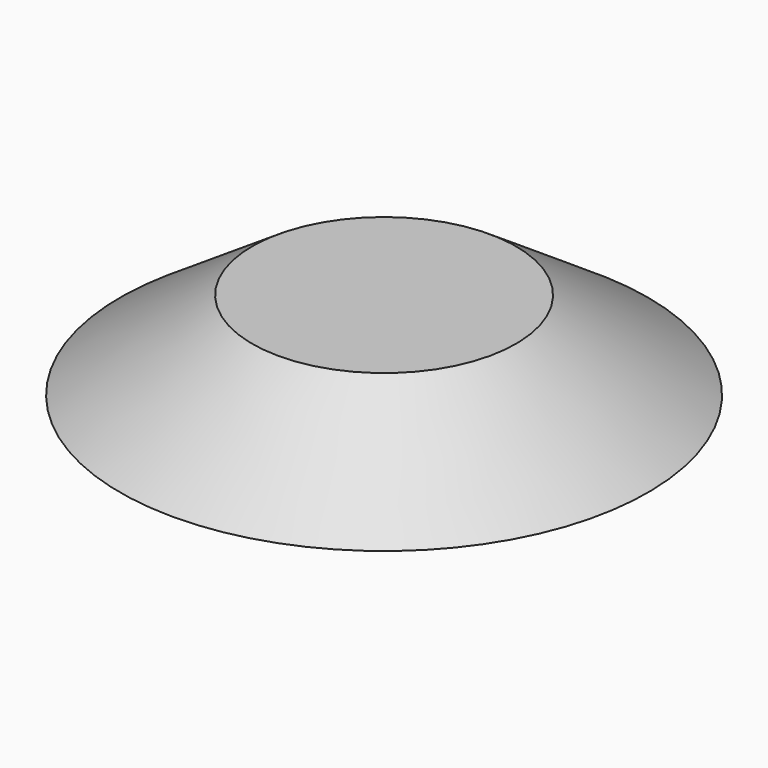
from build123d import *


with BuildPart() as f1:
    # F0 (on Right) → F1 (revolve)
    with BuildSketch(Plane.YZ):
        Polygon((37.432591, 0), (37.432591, 10), (22.432591, 10), (7.432591, 0), align=None)
    revolve(axis=Axis((0, 37.432591, 5), (0, 0, -1)))


solid = f1.part
